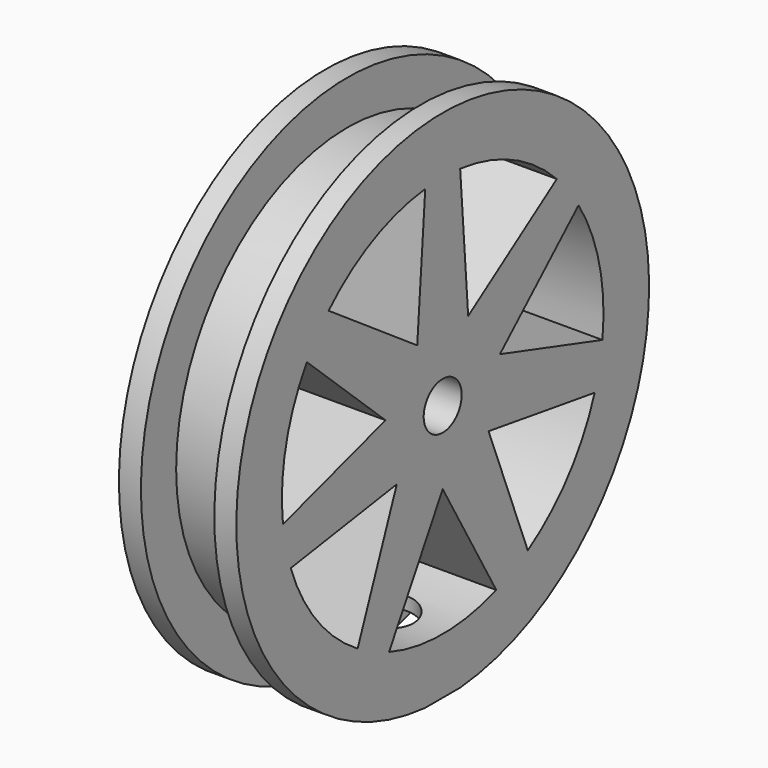
from build123d import *

# Parameters (mm, degrees)
SKETCH100_R             = 17.579923
SKETCH100_R_2           = 1.617669
PAD044_DEPTH            = 8
SKETCH101_W             = 5
SKETCH101_H             = 3
SKETCH102_R             = 12.788983
SKETCH102_R_2           = 6.518589
POCKET072_DEPTH         = 2
SKETCH103_W             = 7.319854
SKETCH103_H             = 4.413105
POCKET073_DEPTH         = 8.001
POCKET075_DEPTH         = 108.636829
POLARPATTERN003_COUNT   = 7
SKETCH112_R             = 2
POCKET079_DEPTH         = 17
BODY019_PLACEMENT_ANGLE = 180


with BuildPart() as part:
    # Sketch100 → Pad044 (new body)
    with BuildSketch(Plane.YZ):
        Circle(SKETCH100_R)
        Circle(SKETCH100_R_2, mode=Mode.SUBTRACT)
    extrude(amount=PAD044_DEPTH)

    # Sketch101 → Groove003 (revolve, cut)
    with BuildSketch(Plane.XY):
        with Locations((4, 16.079923)):
            Rectangle(SKETCH101_W, SKETCH101_H)
    revolve(axis=Axis((0, 0, 0), (1, 0, 0)), mode=Mode.SUBTRACT)

    # Sketch102 (on Face6 of Groove003) → Pocket072 (cut)
    with BuildSketch(Plane.YZ.offset(8)):
        Circle(SKETCH102_R)
        Circle(SKETCH102_R_2, mode=Mode.SUBTRACT)
    extrude(amount=-POCKET072_DEPTH, mode=Mode.SUBTRACT)

    # Sketch103 (on Face11 of Pocket072) → Pocket073 (cut, through all)
    with BuildSketch(Plane.YZ.offset(8)):
        with Locations((-0.062492, 19.721895)):
            Rectangle(SKETCH103_W, SKETCH103_H)
    extrude(amount=-POCKET073_DEPTH, mode=Mode.SUBTRACT)

    # Sketch105 → Pocket075 (cut, through all)
    with BuildSketch(Plane.YZ.offset(8)):
        with BuildLine():
            ThreePointArc((4.568379, 12.912664), (0, 13.69697), (-4.568379, 12.912664))
            Line((-4.568379, 12.912664), (0, 5))
            Line((4.568379, 12.912664), (0, 5))
        make_face()
    pocket075 = extrude(amount=-POCKET075_DEPTH, mode=Mode.SUBTRACT)

    # PolarPattern003: Pocket075 ×7 about axis
    polarpattern003_axis = Axis((0, 0, 0), (1, 0, 0))
    for i in range(1, POLARPATTERN003_COUNT):
        add(pocket075.rotate(polarpattern003_axis, i * 360 / POLARPATTERN003_COUNT), mode=Mode.SUBTRACT)

    # Sketch112 (on Face55 of PolarPattern003) → Pocket079 (cut)
    with BuildSketch(Plane(origin=(0, 0, 17.515343), x_dir=(0, -1, 0), z_dir=(0, 0, 1))):
        with Locations((0, 4)):
            Circle(SKETCH112_R)
    extrude(amount=-POCKET079_DEPTH, mode=Mode.SUBTRACT)


with BuildPart() as part_1:
    # Body016 placement: moved
    add(part.part.moved(Location((46, 73, 0))))


with BuildPart() as part_2:
    # Body019 placement: moved
    add(part_1.part.rotate(Axis((0, 0, 0), (0, 1, 0)), BODY019_PLACEMENT_ANGLE))


solid = part_2.part
